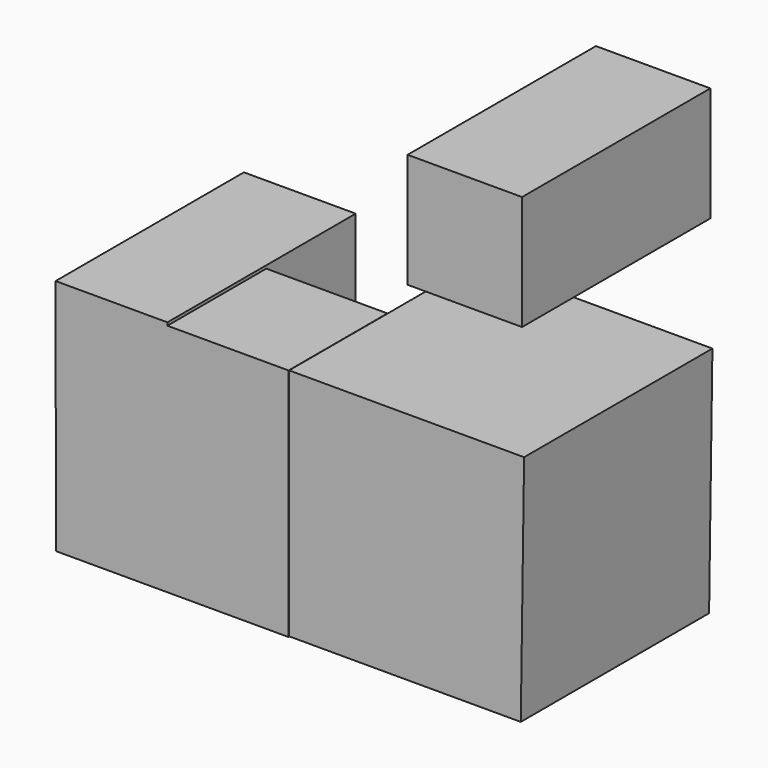
from build123d import *

# Parameters (mm, degrees)
F1_W     = 7.78
F1_H     = 7.78
F2_DEPTH = 16
F3_W     = 15.79667
F3_H     = 15.953074
F4_DEPTH = 8.4
F5_W     = 7.6
F5_H     = 7.6
F6_DEPTH = 16


with BuildPart() as f2:
    # F1 (on face) → F2 (new body)
    with BuildSketch(Plane.XZ):
        with Locations((10.685841, 19.659452)):
            Rectangle(F1_W, F1_H)
        Polygon((-1.260831, -7.886019), (14.489169, -7.886019), (14.714791, 8.02733), (-1.260831, 8.02733), (-1.260831, 0), align=None)
    extrude(amount=-F2_DEPTH)


with BuildPart() as f4:
    # F3 (on face) → F4 (new body)
    with BuildSketch(Plane.XZ):
        with Locations((-9.19418, 0.035276)):
            Rectangle(F3_W, F3_H)
    extrude(amount=-F4_DEPTH)

    # F5 (on face) → F6 (join)
    with BuildSketch(Plane.XZ):
        with Locations((-13.330464, 4.413988)):
            Rectangle(F5_W, F5_H)
    extrude(amount=-F6_DEPTH)


solid = Compound([f2.part, f4.part])
